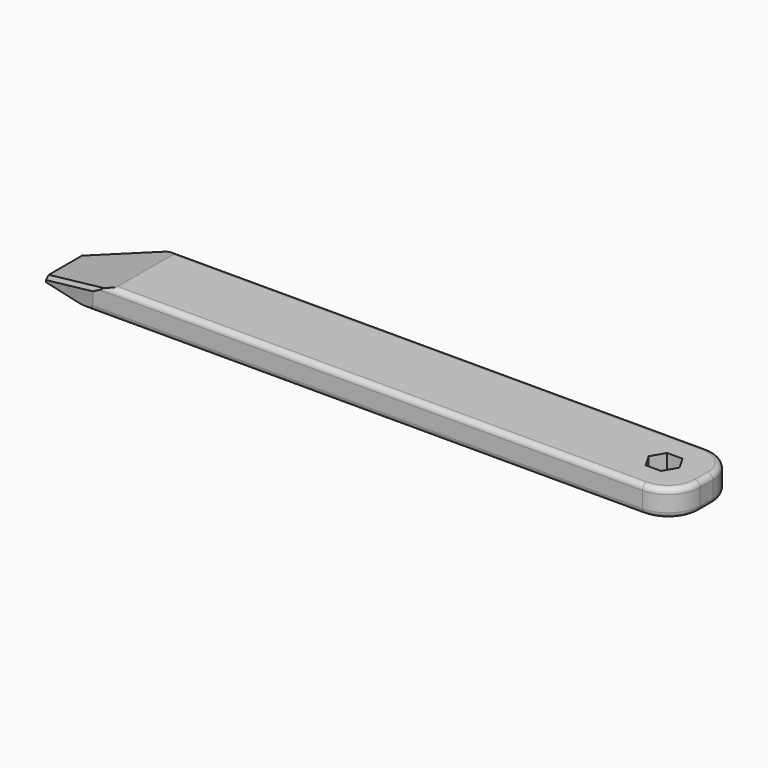
from build123d import *

# Parameters (mm, degrees)
F0_W      = 11.3603360951
F0_H      = 3.4401938319
F1_DEPTH  = 6.35
F2_DEPTH  = 15.61084
F3_DEPTH  = 141.03858
F4_R      = 7.62
F5_R      = 7.62
F6_SIZE2  = 5.1044321158
F6_SIZE   = 19.05
F7_SIZE2  = 14.2191135768
F7_SIZE   = 3.81
F8_SIZE2  = 14.2191135768
F8_SIZE   = 3.81
F9_R      = 1.27
F10_R     = 1.27
F13_DEPTH = 25.4
F14_SIZE  = 0.762
F15_SIZE  = 0.762


with BuildPart() as f1:
    # F0 (on Top) → F1 (new body)
    with BuildSketch(Plane.XY):
        with Locations((-37.5133920461, -25.4080276936)):
            Rectangle(F0_W, F0_H)
    extrude(amount=F1_DEPTH)

    # F2 (add): a face of the model
    f2_faces = [f1.faces().sort_by_distance(p)[0] for p in [
        (-37.5133920461, -27.1281246096, 3.175),
    ]]
    extrude(f2_faces, amount=F2_DEPTH)

    # F3 (add): a face of the model
    f3_faces = [f1.faces().sort_by_distance(p)[0] for p in [
        (-31.8332239985, -33.2134476936, 3.175),
    ]]
    extrude(f3_faces, amount=F3_DEPTH)

    # F4
    f4_edges = [f1.edges().sort_by_distance(p)[0] for p in [
        (109.205356, -42.738965, 3.175),
    ]]
    fillet(f4_edges, radius=F4_R)

    # F5
    f5_edges = [f1.edges().sort_by_distance(p)[0] for p in [
        (109.205356, -23.687931, 3.175),
    ]]
    fillet(f5_edges, radius=F5_R)

    # F6
    f6_edges = [f1.edges().sort_by_distance(p)[0] for p in [
        (-43.19356, -33.213448, 6.35),
    ]]
    chamfer(f6_edges, length=F6_SIZE, length2=F6_SIZE2)

    # F7
    f7_edges = [f1.edges().sort_by_distance(p)[0] for p in [
        (-43.19356, -23.687931, 0.622784),
    ]]
    f7_side = f1.faces().sort_by_distance((-43.19356, -33.213448, 0.622784))[0]
    chamfer(f7_edges, length=F7_SIZE, length2=F7_SIZE2, reference=f7_side)

    # F8
    f8_edges = [f1.edges().sort_by_distance(p)[0] for p in [
        (-43.19356, -42.738965, 0.622784),
    ]]
    chamfer(f8_edges, length=F8_SIZE, length2=F8_SIZE2)

    # F9
    f9_edges = [f1.edges().sort_by_distance(p)[0] for p in [
        (38.720898, -42.738965, 6.35),
    ]]
    fillet(f9_edges, radius=F9_R)

    # F10
    f10_edges = [f1.edges().sort_by_distance(p)[0] for p in [
        (36.305455, -42.738965, 0),
    ]]
    fillet(f10_edges, radius=F10_R)

    # F12 (on face) → F13 (cut)
    with BuildSketch(Plane.XY.offset(6.35)):
        Polygon((99.096596241, -36.3724566996), (100.9298735347, -36.3724566996), (102.7631508283, -33.1971272826), (100.9298735347, -30.0217978656), (97.2633189473, -30.0217978656), (95.4300416537, -33.1971272826), (97.2633189473, -36.3724566996), align=None)
    extrude(amount=-F13_DEPTH, mode=Mode.SUBTRACT)

    # F14
    f14_edges = [f1.edges().sort_by_distance(p)[0] for p in [
        (-36.084003, -40.833965, 3.150568),
    ]]
    chamfer(f14_edges, length=F14_SIZE)

    # F15
    f15_edges = [f1.edges().sort_by_distance(p)[0] for p in [
        (-36.084003, -25.592931, 3.150568),
    ]]
    chamfer(f15_edges, length=F15_SIZE)


solid = f1.part
